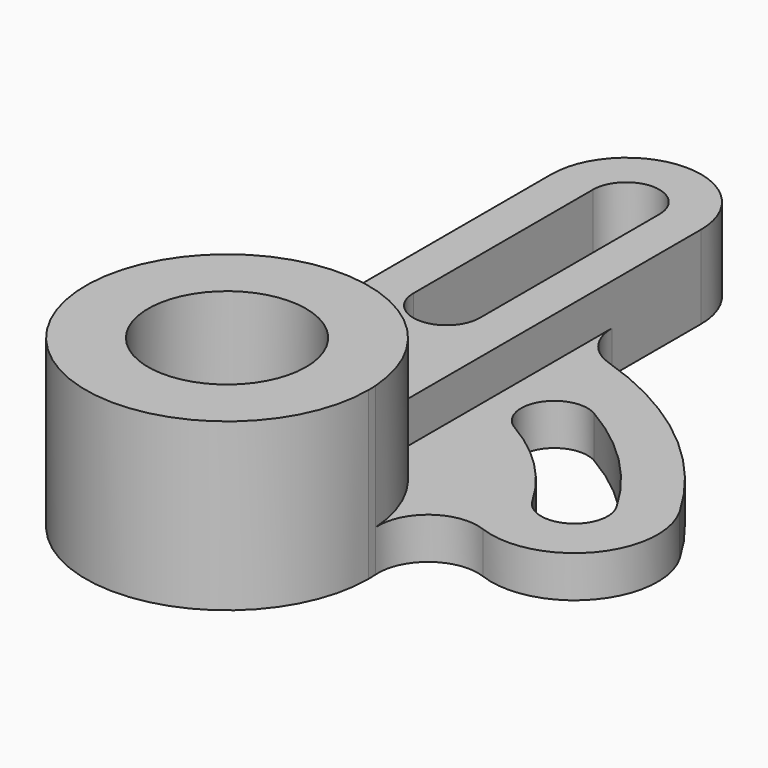
from build123d import *

# Parameters (mm, degrees)
F1_DEPTH = 10
F0_R     = 9.5
F2_DEPTH = 20
F3_DEPTH = 5
F4_R     = 6


with BuildPart() as f1:
    # F0 (on Top) → F1 (new body)
    with BuildSketch(Plane.XY):
        with BuildLine():
            Line((-9, 60), (-9, 42.0475920833))
            ThreePointArc((-9, 42.0475920833), (-6.5112727326, 42.5041565897), (-4, 42.8135492572))
            Line((-4, 42.8135492572), (-4, 60))
            ThreePointArc((-4, 60), (0, 64), (4, 60))
            Line((4, 60), (4, 42.8135492572))
            ThreePointArc((4, 42.8135492572), (6.5112727326, 42.5041565897), (9, 42.0475920833))
            Line((9, 42.0475920833), (9, 60))
            ThreePointArc((9, 60), (0, 69), (-9, 60))
        make_face()
        with BuildLine():
            Line((-9, 42.0475920833), (-9, 14.4222051019))
            ThreePointArc((-9, 14.4222051019), (0, 17), (9, 14.4222051019))
            Line((9, 14.4222051019), (9, 42.0475920833))
            ThreePointArc((9, 42.0475920833), (6.5112727326, 42.5041565897), (4, 42.8135492572))
            Line((4, 42.8135492572), (4, 33))
            ThreePointArc((4, 33), (0, 29), (-4, 33))
            Line((-4, 33), (-4, 42.8135492572))
            ThreePointArc((-4, 42.8135492572), (-6.5112727326, 42.5041565897), (-9, 42.0475920833))
        make_face()
    extrude(amount=F1_DEPTH)

    # F0 (on Top) → F2 (join)
    with BuildSketch(Plane.XY):
        with BuildLine():
            ThreePointArc((-9, 14.4222051019), (-8.2462112512, -14.8660687473), (17, 0))
            ThreePointArc((17, 0), (16.9906697283, 0.5631537833), (16.9626891549, 1.1256894045))
            ThreePointArc((16.9626891549, 1.1256894045), (14.5847399518, 8.7341491022), (9, 14.4222051019))
            ThreePointArc((9, 14.4222051019), (0, 17), (-9, 14.4222051019))
        make_face()
        Circle(F0_R, mode=Mode.SUBTRACT)
    extrude(amount=F2_DEPTH)

    # F0 (on Top) → F3 (join)
    with BuildSketch(Plane.XY):
        with BuildLine():
            ThreePointArc((9, 14.4222051019), (14.5847399518, 8.7341491022), (16.9626891549, 1.1256894045))
            ThreePointArc((16.9626891549, 1.1256894045), (19.3722847508, 6.3399805993), (25.0605147601, 7.1393697171))
            ThreePointArc((25.0605147601, 7.1393697171), (36.2055537239, 10.0321400586), (37.2390923627, 21.5))
            ThreePointArc((37.2390923627, 21.5), (25.2994921043, 34.7697526489), (9, 42.0475920833))
            Line((9, 42.0475920833), (9, 14.4222051019))
        make_face()
        with BuildLine():
            ThreePointArc((32.04293994, 18.5), (30.5788383249, 13.0358983849), (25.1147367097, 14.5))
            ThreePointArc((25.1147367097, 14.5), (20.5060966544, 20.5060966544), (14.5, 25.1147367097))
            ThreePointArc((14.5, 25.1147367097), (13.0358983849, 30.5788383249), (18.5, 32.04293994))
            ThreePointArc((18.5, 32.04293994), (26.1629509039, 26.1629509039), (32.04293994, 18.5))
        make_face(mode=Mode.SUBTRACT)
    extrude(amount=F3_DEPTH)

    # F4
    f4_edges = [f1.edges().sort_by_distance(p)[0] for p in [
        (9, 42.047592, 2.5),
    ]]
    fillet(f4_edges, radius=F4_R)


solid = f1.part
